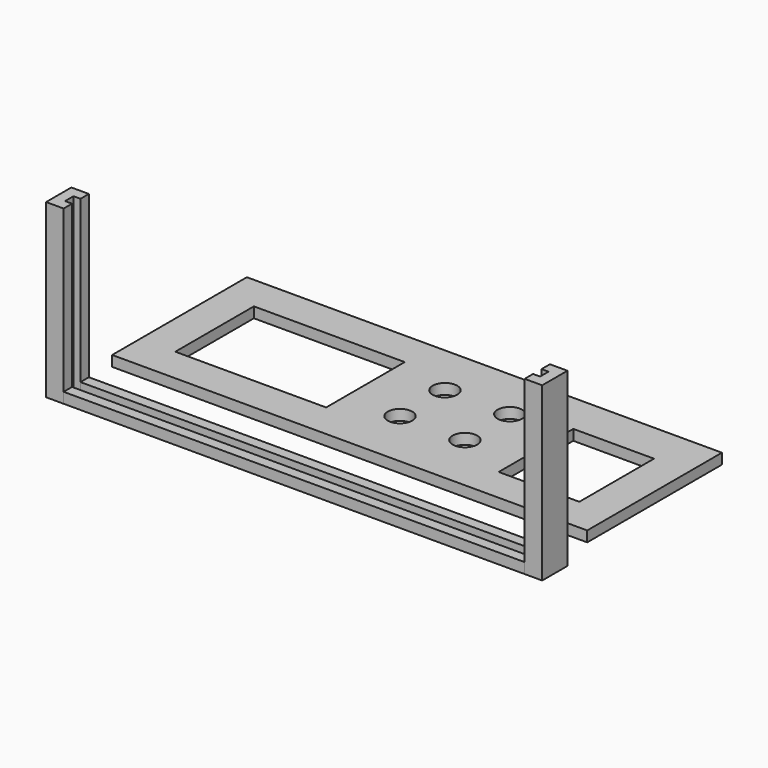
from build123d import *

# Parameters (mm, degrees)
F0_W     = 135.424095
F0_H     = 48
F0_W_2   = 43
F0_H_2   = 28
F0_R     = 3.5
F0_W_3   = 23
F0_H_3   = 26.6
F1_DEPTH = 3
F2_DEPTH = 49
F3_DEPTH = 1
F0_W_4   = 131.424
F0_H_4   = 3
F4_DEPTH = 3


with BuildPart() as f1:
    # F0 (on Top) → F1 (new body)
    with BuildSketch(Plane.XY):
        with Locations((-10.000047, 12.234408)):
            Rectangle(F0_W, F0_H)
        with Locations((-46.212095, 12.234408)):
            Rectangle(F0_W_2, F0_H_2, mode=Mode.SUBTRACT)
        with Locations((-9.25, 5.234408)):
            Circle(F0_R, mode=Mode.SUBTRACT)
        with Locations((9.25, 5.234408)):
            Circle(F0_R, mode=Mode.SUBTRACT)
        with Locations((36.212, 11.234408)):
            Rectangle(F0_W_3, F0_H_3, mode=Mode.SUBTRACT)
        with Locations((-9.25, 21.234408)):
            Circle(F0_R, mode=Mode.SUBTRACT)
        with Locations((9.25, 21.234408)):
            Circle(F0_R, mode=Mode.SUBTRACT)
    extrude(amount=F1_DEPTH)


with BuildPart() as f2:
    # F0 (on Top) → F2 (new body)
    with BuildSketch(Plane.XY):
        Polygon((56.374789, -23.389696), (56.374789, -26.389696), (58.374789, -26.389696), (58.374789, -29.389696), (56.374789, -29.389696), (56.374789, -32.389696), (58.374789, -32.389696), (61.374789, -32.389696), (61.374789, -23.389696), (58.374789, -23.389696), align=None)
        Polygon((-77.049211, -29.389696), (-77.049211, -26.389696), (-75.049211, -26.389696), (-75.049211, -23.389696), (-77.049211, -23.389696), (-80.049211, -23.389696), (-80.049211, -32.389696), (-77.049211, -32.389696), (-75.049211, -32.389696), (-75.049211, -29.389696), align=None)
    extrude(amount=F2_DEPTH)

    # F0 (on Top) → F3 (join)
    with BuildSketch(Plane.XY):
        Polygon((56.374789, -26.389696), (-75.049211, -26.389696), (-75.049211, -29.389696), (56.374789, -29.389696), (58.374789, -29.389696), (58.374789, -26.389696), align=None)
    extrude(amount=F3_DEPTH)


with BuildPart() as f4:
    # F0 (on Top) → F4 (new body)
    with BuildSketch(Plane.XY):
        with Locations((-9.337211, -30.889696)):
            Rectangle(F0_W_4, F0_H_4)
        with Locations((-9.337211, -24.889696)):
            Rectangle(F0_W_4, F0_H_4)
    extrude(amount=F4_DEPTH)


solid = Compound([f1.part, f2.part, f4.part])
